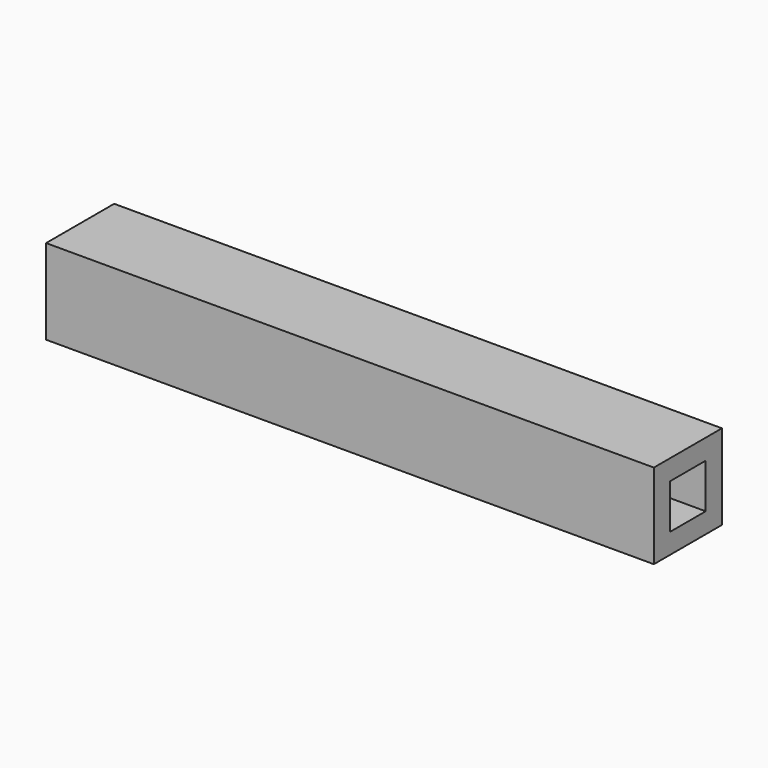
from build123d import *

# Parameters (mm, degrees)
F0_W     = 150
F0_H     = 21
F1_DEPTH = 21
F2_W     = 11
F2_H     = 11
F3_DEPTH = 200


with BuildPart() as f1:
    # F0 (on Front) → F1 (new body)
    with BuildSketch(Plane.XZ):
        with Locations((-75, 10.5)):
            Rectangle(F0_W, F0_H)
    extrude(amount=F1_DEPTH)

    # F2 (on Right) → F3 (cut)
    with BuildSketch(Plane.YZ):
        with Locations((-10.5, 10.5)):
            Rectangle(F2_W, F2_H)
    extrude(amount=-F3_DEPTH, mode=Mode.SUBTRACT)


solid = f1.part
